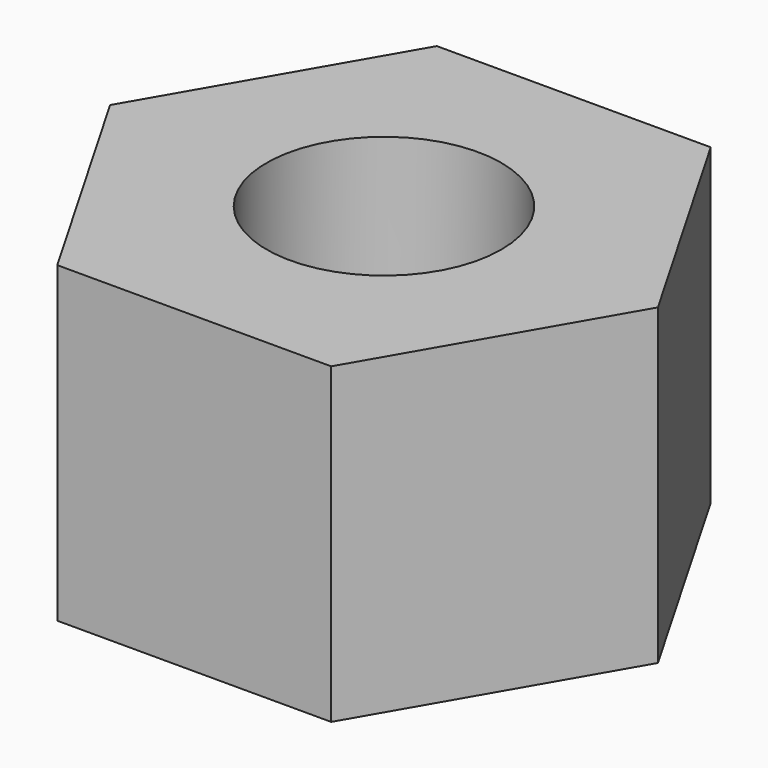
from build123d import *

# Parameters (mm, degrees)
F0_R          = 1.5
F1_DEPTH      = 2
F1_DEPTH_BACK = 2


with BuildPart() as f1:
    # F0 (on Top) → F1 (new body, two sides)
    with BuildSketch(Plane.XY) as f1_sk:
        Polygon((1.75, 3.0310889132), (-1.75, 3.0310889132), (-3.5, 0), (-1.75, -3.0310889132), (1.75, -3.0310889132), (3.5, 0), align=None)
        Circle(F0_R, mode=Mode.SUBTRACT)
    extrude(amount=-F1_DEPTH)
    extrude(f1_sk.sketch, amount=F1_DEPTH_BACK)


solid = f1.part
